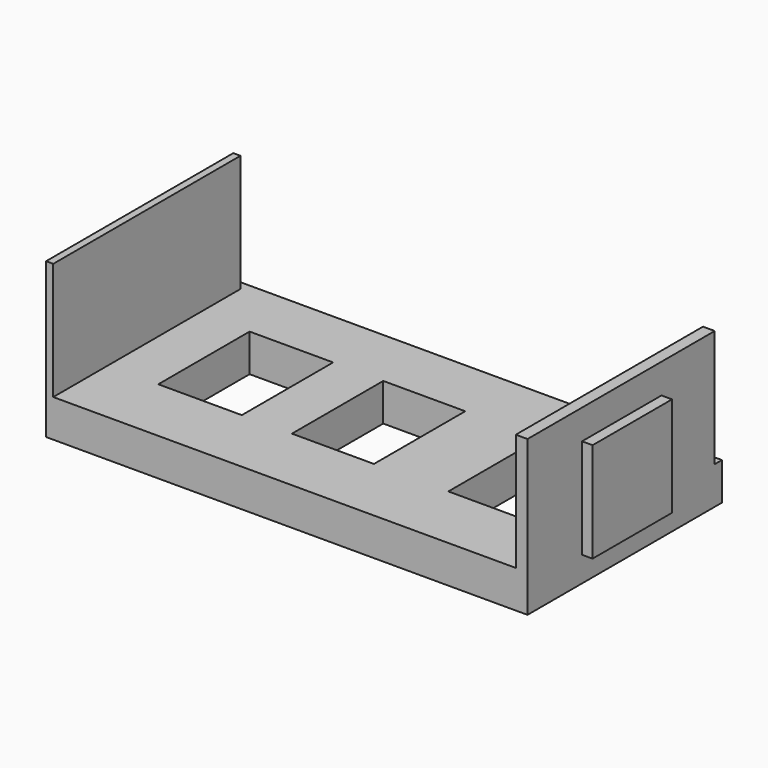
from build123d import *

# Parameters (mm, degrees)
F0_W     = 104.2701750994
F0_H     = 52.628479898
F0_W_2   = 18.0910397321
F0_H_2   = 24.7193295509
F0_W_3   = 17.7621119656
F0_W_4   = 16.775328666
F0_H_3   = 24.3904013187
F1_DEPTH = 8.128
F2_W     = 1.5516094863
F2_H     = 50.6867542863
F2_W_2   = 2.5433897972
F3_DEPTH = 25.4
F4_W     = 21.5143151581
F4_H     = 21.6306117363
F6_DEPTH = 2.286
F5_W     = 21.539459005
F5_H     = 21.8509552069
F7_DEPTH = 2.286


with BuildPart() as f1:
    # F0 (on Top) → F1 (new body)
    with BuildSketch(Plane.XY):
        with Locations((4.019651562, 11.5622095764)):
            Rectangle(F0_W, F0_H)
        with Locations((-26.5706507489, 12.3596647754)):
            Rectangle(F0_W_2, F0_H_2, mode=Mode.SUBTRACT)
        with Locations((2.2105479147, 12.3596647754)):
            Rectangle(F0_W_3, F0_H_2, mode=Mode.SUBTRACT)
        with Locations((35.5967376381, 12.1952006593)):
            Rectangle(F0_W_4, F0_H_3, mode=Mode.SUBTRACT)
    extrude(amount=F1_DEPTH)

    # F2 (on face) → F3 (join)
    with BuildSketch(Plane.XY.offset(8.128)):
        with Locations((-47.3396312445, 10.5913467705)):
            Rectangle(F2_W, F2_H)
        with Locations((54.8830442131, 10.5913467705)):
            Rectangle(F2_W_2, F2_H)
    extrude(amount=F3_DEPTH)

    # F4 (on face) → F6 (join)
    with BuildSketch(Plane.YZ.offset(56.1547391117)):
        with Locations((10.7571575791, 16.2811053451)):
            Rectangle(F4_W, F4_H)
    extrude(amount=F6_DEPTH)

    # F5 (on face) → F7 (join)
    with BuildSketch(Plane(origin=(-48.1154359877, 0, 0), x_dir=(0, -1, 0), z_dir=(-1, 0, 0))):
        with Locations((-10.7697295025, 16.3343714084)):
            Rectangle(F5_W, F5_H)
    extrude(amount=F7_DEPTH)


solid = f1.part
